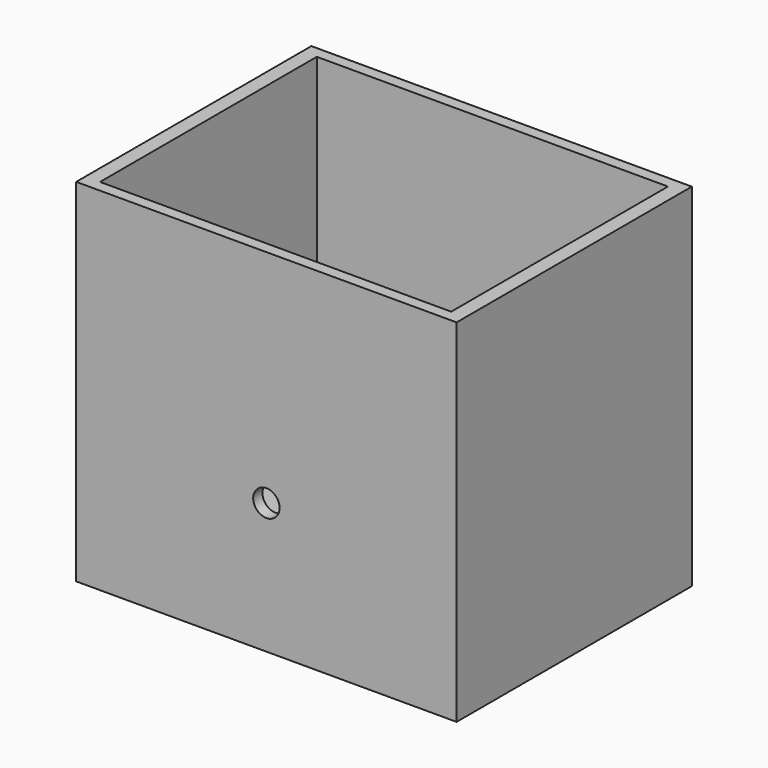
from build123d import *

# Parameters (mm, degrees)
SKETCH_W        = 216.32
SKETCH_H        = 167.18
PAD_DEPTH       = 200
SKETCH001_W     = 199.68
SKETCH001_H     = 154.08
POCKET_DEPTH    = 140
SKETCH002_W     = 166.5
SKETCH002_H     = 89
POCKET001_DEPTH = 30
SKETCH003_W     = 166.5
SKETCH003_H     = 20
POCKET002_DEPTH = 21
SKETCH004_R     = 7.5
HOLE_DEPTH      = 200


with BuildPart() as part:
    # Sketch → Pad (new body)
    with BuildSketch(Plane.XY):
        Rectangle(SKETCH_W, SKETCH_H)
    extrude(amount=PAD_DEPTH)

    # Sketch001 (on Face6 of Pad) → Pocket (cut)
    with BuildSketch(Plane.XY.offset(200)):
        Rectangle(SKETCH001_W, SKETCH001_H)
    extrude(amount=-POCKET_DEPTH, mode=Mode.SUBTRACT)

    # Sketch002 (on Face11 of Pocket) → Pocket001 (cut)
    with BuildSketch(Plane.XY.offset(60)):
        Rectangle(SKETCH002_W, SKETCH002_H)
    extrude(amount=-POCKET001_DEPTH, mode=Mode.SUBTRACT)

    # Sketch003 (on Face16 of Pocket001) → Pocket002 (cut)
    with BuildSketch(Plane.XY.offset(30)):
        with Locations((0, 24.5)):
            Rectangle(SKETCH003_W, SKETCH003_H)
        with Locations((0, -24.5)):
            Rectangle(SKETCH003_W, SKETCH003_H)
    extrude(amount=-POCKET002_DEPTH, mode=Mode.SUBTRACT)

    # Sketch004 (on Face6 of Pocket002) → Hole (cut)
    with BuildSketch(Plane.XZ.offset(83.59)):
        with Locations((0, 74.375)):
            Circle(SKETCH004_R)
    extrude(amount=-HOLE_DEPTH, mode=Mode.SUBTRACT)


solid = part.part
